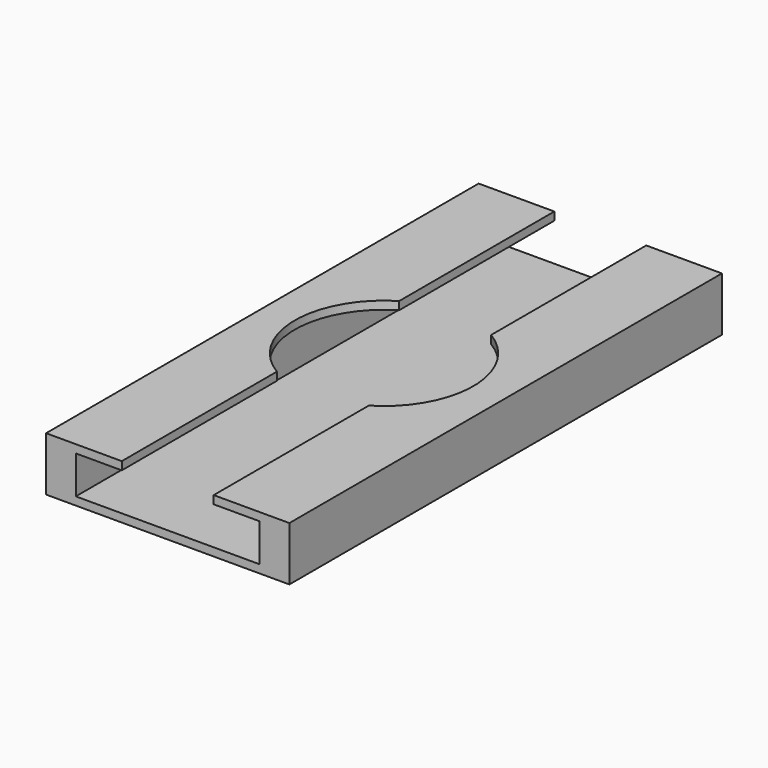
from build123d import *

# Parameters (mm, degrees)
F0_W     = 45
F0_H     = 100
F1_DEPTH = 10
F2_W     = 17
F2_H     = 100
F3_DEPTH = 8.5
F4_W     = 34
F4_H     = 100
F5_DEPTH = 7
F8_R     = 16.5
F9_DEPTH = 10


with BuildPart() as f1:
    # F0 (on Top) → F1 (new body)
    with BuildSketch(Plane.XY):
        with Locations((-33.835356, -14.808846)):
            Rectangle(F0_W, F0_H)
    extrude(amount=F1_DEPTH)

    # F2 (on face) → F3 (cut)
    with BuildSketch(Plane.XY.offset(10)):
        with Locations((-33.835356, -14.808846)):
            Rectangle(F2_W, F2_H)
    extrude(amount=-F3_DEPTH, mode=Mode.SUBTRACT)


with BuildPart() as f5:
    # F4 (on Top) → F5 (new body)
    with BuildSketch(Plane.XY):
        with Locations((-39.335356, -14.808846)):
            Rectangle(F4_W, F4_H)
    extrude(amount=F5_DEPTH)


with BuildPart() as f5_1:
    # F6: moved
    add(f5.part.moved(Location((5.5, 0, 1.5))))


with BuildPart() as f1_1:
    add(f1.part)

    # F7: cut F5
    add(f5_1.part, mode=Mode.SUBTRACT)


with BuildPart() as f9:
    # F8 (on Top) → F9 (new body)
    with BuildSketch(Plane.XY):
        with Locations((-33.835356, -64.808846)):
            Circle(F8_R)
    extrude(amount=F9_DEPTH)


with BuildPart() as f9_1:
    # F10: moved
    add(f9.part.moved(Location((0, 50, 4))))


with BuildPart() as f1_2:
    add(f1_1.part)

    # F11: cut F9
    add(f9_1.part, mode=Mode.SUBTRACT)


solid = f1_2.part
